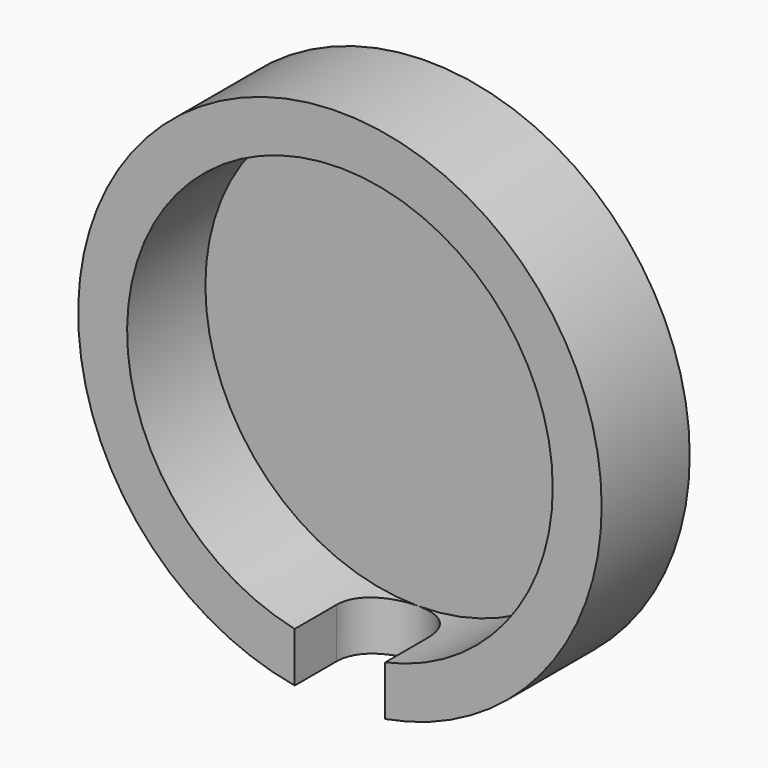
from build123d import *

# Parameters (mm, degrees)
F2_R     = 10.7
F2_R_2   = 8.7
F3_DEPTH = 4.5
F5_DEPTH = 10.701
F6_DEPTH = 0.5


with BuildPart() as f3:
    # F2 (on Front) → F3 (new body)
    with BuildSketch(Plane.XZ):
        Circle(F2_R)
        Circle(F2_R_2, mode=Mode.SUBTRACT)
    extrude(amount=F3_DEPTH)

    # F4 (on Top) → F5 (cut, through all)
    with BuildSketch(Plane.XY):
        with BuildLine():
            Line((1.85, -4.5), (1.85, -2.35))
            ThreePointArc((1.85, -2.35), (0, -0.5), (-1.85, -2.35))
            Line((-1.85, -2.35), (-1.85, -4.5))
            Line((-1.85, -4.5), (1.85, -4.5))
        make_face()
    extrude(amount=-F5_DEPTH, mode=Mode.SUBTRACT)

    # F2 (on Front) → F6 (join)
    with BuildSketch(Plane.XZ):
        Circle(F2_R_2)
    extrude(amount=F6_DEPTH)


solid = f3.part
